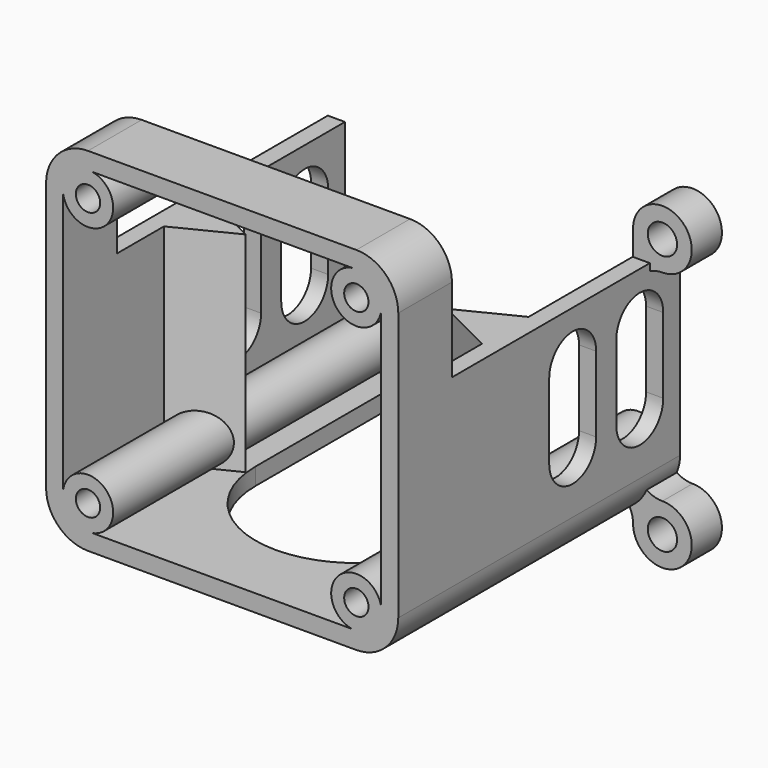
from build123d import *

# Parameters (mm, degrees)
PAD003_DEPTH         = 42
SKETCH008_W          = 60
SKETCH008_H          = 34
POCKET004_DEPTH      = 15.001
SKETCH009_R          = 1.45
POCKET005_DEPTH      = 8
POCKET006_DEPTH      = 42.001
POCKET008_DEPTH      = 21.001
POCKET008_DEPTH_BACK = 21.001
SKETCH013_R          = 1.75
PAD004_DEPTH         = 4.5
POCKET_DEPTH         = 25.501
PAD015_DEPTH         = 25


with BuildPart() as part:
    # Sketch006 → Pad003 (new body)
    with BuildSketch(Plane.XZ):
        with BuildLine():
            Line((-16, 21), (16, 21))
            ThreePointArc((21, 16), (19.5355339059, 19.5355339059), (16, 21))
            Line((21, 16), (21, -16))
            ThreePointArc((16, -21), (19.5355339059, -19.5355339059), (21, -16))
            Line((16, -21), (-16, -21))
            ThreePointArc((-21, -16), (-19.5355339059, -19.5355339059), (-16, -21))
            Line((-21, -16), (-21, 16))
            ThreePointArc((-16, 21), (-19.5355339059, 19.5355339059), (-21, 16))
        make_face()
    extrude(amount=PAD003_DEPTH)

    # Sketch008 (on DatumPlane) → Pocket004 (cut, through all)
    with BuildSketch(Plane.XY.offset(6)):
        with Locations((0, -17)):
            Rectangle(SKETCH008_W, SKETCH008_H)
    extrude(amount=POCKET004_DEPTH, mode=Mode.SUBTRACT)

    # Sketch009 (on DatumPlane) → Pocket005 (cut)
    with BuildSketch(Plane.XZ.offset(42)):
        with Locations((-16, 16)):
            Circle(SKETCH009_R)
        with Locations((16, 16)):
            Circle(SKETCH009_R)
        with Locations((-16, -16)):
            Circle(SKETCH009_R)
        with Locations((16, -16)):
            Circle(SKETCH009_R)
    extrude(amount=-POCKET005_DEPTH, mode=Mode.SUBTRACT)

    # Sketch010 (on DatumPlane) → Pocket006 (cut, through all)
    with BuildSketch(Plane.XZ.offset(42)):
        with BuildLine():
            Line((-18.9580398915, 15.5), (-18.9580398915, -15.5))
            ThreePointArc((-15.5, -18.9580398915), (-13.8786796564, -13.8786796564), (-18.9580398915, -15.5))
            Line((-15.5, -18.9580398915), (15.5, -18.9580398915))
            ThreePointArc((18.9580398915, -15.5), (13.8786796564, -13.8786796564), (15.5, -18.9580398915))
            Line((18.9580398915, -15.5), (18.9580398915, 15.5))
            ThreePointArc((15.5, 18.9580398915), (13.8786796564, 13.8786796564), (18.9580398915, 15.5))
            Line((-15.5, 18.9580398915), (15.5, 18.9580398915))
            ThreePointArc((-18.9580398915, 15.5), (-13.8786796564, 13.8786796564), (-15.5, 18.9580398915))
        make_face()
    extrude(amount=-POCKET006_DEPTH, mode=Mode.SUBTRACT)

    # Sketch012 → Pocket008 (cut, two sides)
    with BuildSketch(Plane.YZ) as pocket008_sk:
        with BuildLine():
            ThreePointArc((-2.5, 0), (-6, 3.5), (-9.5, 0))
            Line((-9.5, 0), (-9.5, -9))
            ThreePointArc((-9.5, -9), (-6, -12.5), (-2.5, -9))
            Line((-2.5, -9), (-2.5, 0))
        make_face()
        with BuildLine():
            ThreePointArc((-12.5, 0), (-16, 3.5), (-19.5, 0))
            Line((-19.5, 0), (-19.5, -9))
            ThreePointArc((-19.5, -9), (-16, -12.5), (-12.5, -9))
            Line((-12.5, -9), (-12.5, 0))
        make_face()
    extrude(amount=-POCKET008_DEPTH, mode=Mode.SUBTRACT)
    extrude(pocket008_sk.sketch, amount=POCKET008_DEPTH_BACK, mode=Mode.SUBTRACT)

    # Sketch013 → Pad004 (join)
    with BuildSketch(Plane.XZ):
        with BuildLine():
            ThreePointArc((22.5, 5.5), (24.9748737342, 11.4748737342), (19, 9))
            Line((19.0000000001, 9), (19.0000000001, 2.0000200959))
            ThreePointArc((22.5, 5.5), (20.0251333708, 4.4748808391), (19.0000000001, 2.0000200959))
        make_face()
        with Locations((22.5, 9)):
            Circle(SKETCH013_R, mode=Mode.SUBTRACT)
        with BuildLine():
            ThreePointArc((-22.5, -18.5), (-24.9748737342, -24.4748737342), (-19, -22))
            ThreePointArc((-18.0892857143, -19.6450903436), (-18.7643912143, -20.7375618827), (-19, -22))
            Line((-20.1450903436, -17.5892857143), (-18.0892857143, -19.6450903436))
            ThreePointArc((-22.5, -18.5), (-21.2375618827, -18.2643912143), (-20.1450903436, -17.5892857143))
        make_face()
        with Locations((-22.5, -22)):
            Circle(SKETCH013_R, mode=Mode.SUBTRACT)
        with BuildLine():
            ThreePointArc((19, -22), (24.9748737342, -24.4748737342), (22.5, -18.5))
            ThreePointArc((20.1450903436, -17.5892857143), (21.2375618827, -18.2643912143), (22.5, -18.5))
            Line((18.0892857143, -19.6450903436), (20.1450903436, -17.5892857143))
            ThreePointArc((19, -22), (18.7643912143, -20.7375618827), (18.0892857143, -19.6450903436))
        make_face()
        with Locations((22.5, -22)):
            Circle(SKETCH013_R, mode=Mode.SUBTRACT)
    extrude(amount=PAD004_DEPTH)

    # Sketch015 → Pocket (cut, through all)
    with BuildSketch(Plane.XY):
        with BuildLine():
            ThreePointArc((-12, -22), (0, -34), (12, -22))
            Line((12, -22), (12, 0))
            Line((-12, 0), (12, 0))
            Line((-12, -22), (-12, 0))
        make_face()
    extrude(amount=-POCKET_DEPTH, mode=Mode.SUBTRACT)

    # Sketch040 (on DatumPlane) → Pad015 (join)
    with BuildSketch(Plane.XY.offset(6)):
        Polygon((-19, -20), (-19, -27), (-12, -23.5), align=None)
        Polygon((19, -20), (19, -27), (12, -23.5), align=None)
    extrude(amount=-PAD015_DEPTH)


with BuildPart() as part_1:
    # Body placement: moved
    add(part.part.moved(Location((4, -6, 7))))


solid = part_1.part
